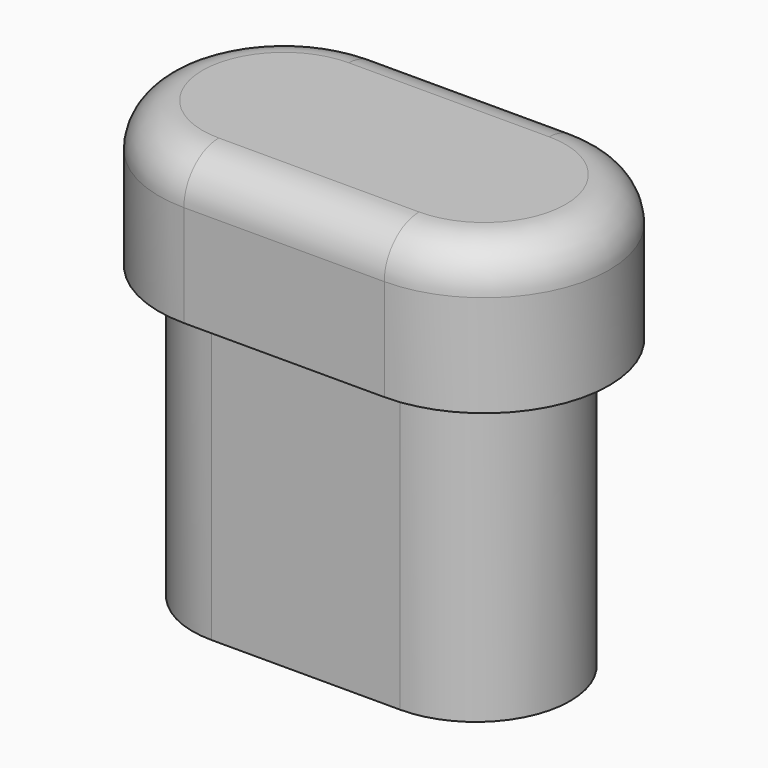
from build123d import *

# Parameters (mm, degrees)
PAD_DEPTH    = 20
PAD001_DEPTH = 10
FILLET_R     = 3


with BuildPart() as part:
    # Sketch → Pad (new body)
    with BuildSketch(Plane.XY):
        with BuildLine():
            ThreePointArc((-6.5, 6.5), (-13, 0), (-6.5, -6.5))
            Line((-6.5, -6.5), (6.5, -6.5))
            ThreePointArc((6.5, -6.5), (13, 0), (6.5, 6.5))
            Line((-6.5, 6.5), (6.5, 6.5))
        make_face()
    extrude(amount=PAD_DEPTH)

    # Sketch001 (on Face6 of Pad) → Pad001 (join)
    with BuildSketch(Plane.XY.offset(20)):
        with BuildLine():
            ThreePointArc((-6.716935, 8.602443), (-15.319378, 0), (-6.716935, -8.602443))
            Line((-6.716935, -8.602443), (7.081573, -8.602443))
            ThreePointArc((7.081573, -8.602443), (15.684016, 0), (7.081573, 8.602443))
            Line((-6.716935, 8.602443), (7.081573, 8.602443))
        make_face()
    extrude(amount=PAD001_DEPTH)

    # Fillet
    fillet_edges = [part.edges().sort_by_distance(p)[0] for p in [
        (0.182319, 8.602443, 30),
        (-15.319378, 0, 30),
        (0.182319, -8.602443, 30),
        (15.684016, 0, 30),
    ]]
    fillet(fillet_edges, radius=FILLET_R)


solid = part.part
